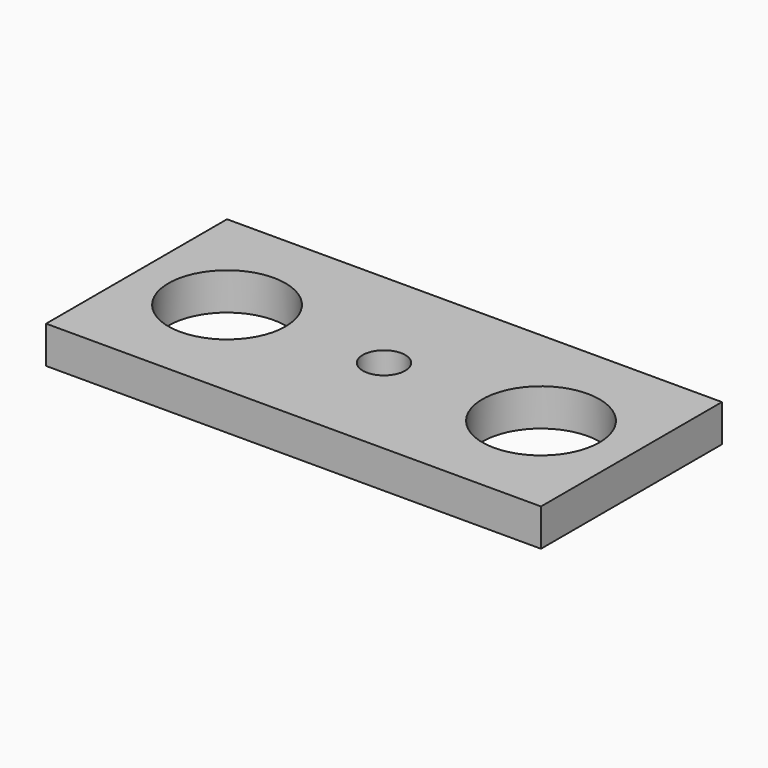
from build123d import *

# Parameters (mm, degrees)
SKETCH_W     = 93
SKETCH_H     = 42.5
SKETCH_R     = 11
PAD_DEPTH    = 7
SKETCH001_R  = 4
POCKET_DEPTH = 7.001


with BuildPart() as part:
    # Sketch → Pad (new body)
    with BuildSketch(Plane.XY):
        Rectangle(SKETCH_W, SKETCH_H)
        with Locations((29.5, 0)):
            Circle(SKETCH_R, mode=Mode.SUBTRACT)
        with Locations((-29.5, 0)):
            Circle(SKETCH_R, mode=Mode.SUBTRACT)
    extrude(amount=PAD_DEPTH)

    # Sketch001 → Pocket (cut, through all)
    with BuildSketch(Plane.XY.offset(7)):
        Circle(SKETCH001_R)
    extrude(amount=-POCKET_DEPTH, mode=Mode.SUBTRACT)


solid = part.part
